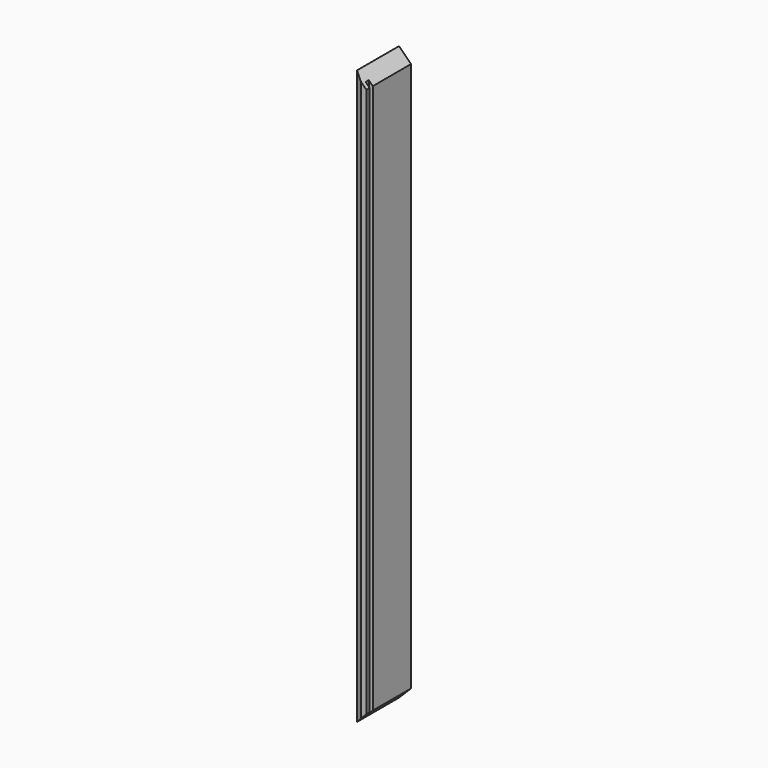
from build123d import *

# Parameters (mm, degrees)
F0_W     = 88.9
F0_H     = 914.4
F1_DEPTH = 19.05
F2_W     = 6.35
F2_H     = 914.4
F3_DEPTH = 6.35
F4_SIZE2 = 5.08
F4_SIZE  = 10.16
F6_DEPTH = 88.901


with BuildPart() as f1:
    # F0 (on Right) → F1 (new body)
    with BuildSketch(Plane.YZ):
        with Locations((44.45, 457.2)):
            Rectangle(F0_W, F0_H)
    extrude(amount=F1_DEPTH)

    # F2 (on face) → F3 (cut)
    with BuildSketch(Plane.YZ.offset(19.05)):
        with Locations((9.525, 457.2)):
            Rectangle(F2_W, F2_H)
    extrude(amount=-F3_DEPTH, mode=Mode.SUBTRACT)

    # F4
    f4_edges = [f1.edges().sort_by_distance(p)[0] for p in [
        (0, 0, 457.2),
    ]]
    chamfer(f4_edges, length=F4_SIZE, length2=F4_SIZE2)

    # F5 (on face) → F6 (cut, through all)
    with BuildSketch(Plane(origin=(0, 88.9, 0), x_dir=(-1, 0, 0), z_dir=(0, 1, 0))):
        Polygon((-19.05, 895.35), (0, 914.4), (-19.05, 914.4), align=None)
        Polygon((-19.05, 0), (0, 0), (-19.05, 19.05), align=None)
    extrude(amount=-F6_DEPTH, mode=Mode.SUBTRACT)


solid = f1.part
